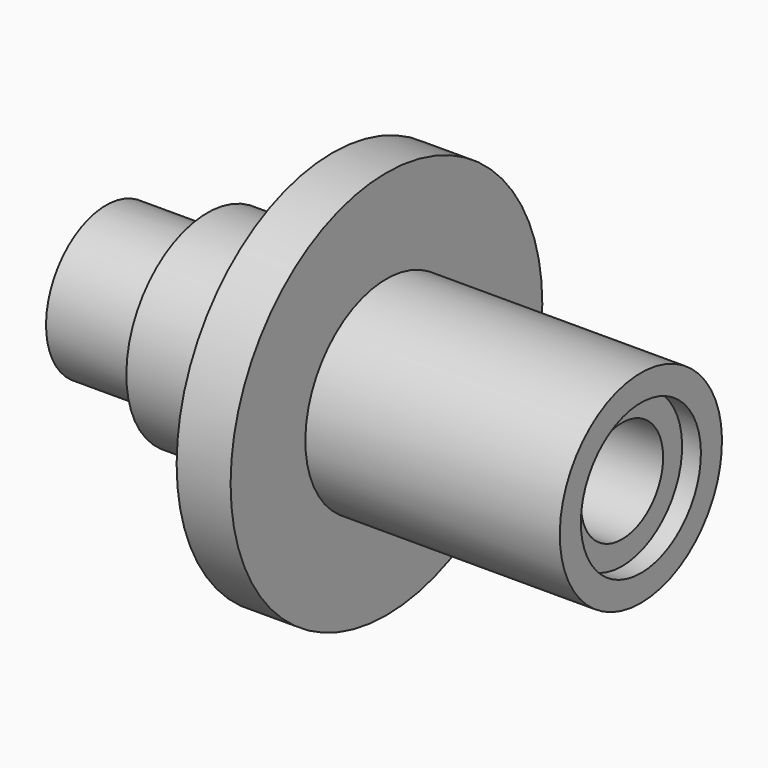
from build123d import *


with BuildPart() as f1:
    # F0 (on Front) → F1 (revolve)
    with BuildSketch(Plane.XZ):
        Polygon((0, 2.471854), (0, 0.910683), (-6.374781, 0.390293), (-6.374781, 1.127513), (-7.458928, 1.127513), (-7.458928, 0), (-4.119757, 0), (-4.119757, -0.867317), (0, -0.867317), (0, -3.946293), (1.778, -3.946293), (1.778, -0.867317), (10.16, -0.867317), (10.16, 0), (9.540489, 0), (9.540489, 0.780586), (1.778, 0.780586), (1.778, 2.471854), align=None)
    revolve(axis=Axis((0.889, 0, 2.471854), (1, 0, 0)))


solid = f1.part
